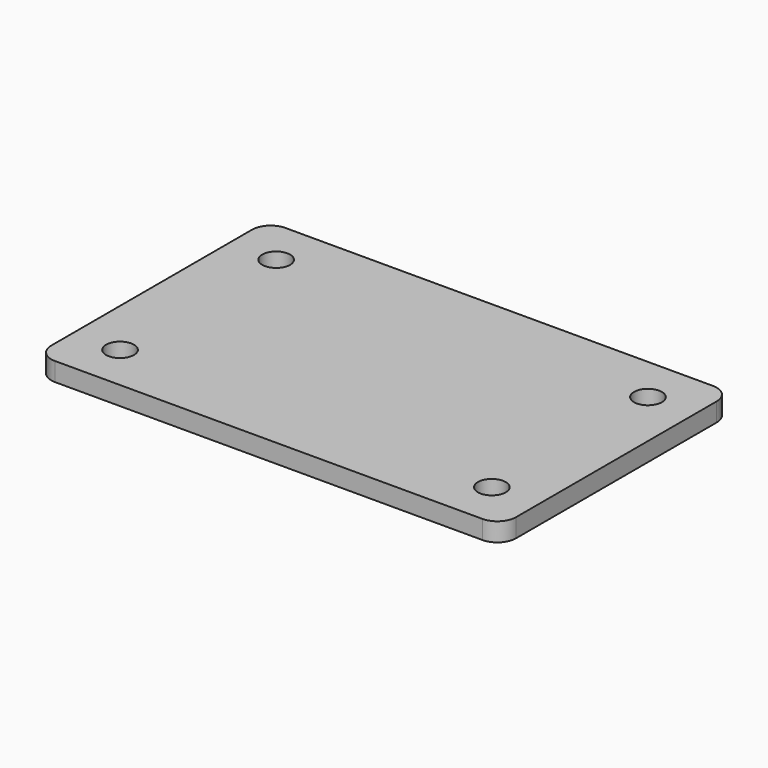
from build123d import *

# Parameters (mm, degrees)
F0_W     = 50
F0_H     = 31
F0_R     = 1.5
F1_DEPTH = 2
F2_R     = 2


with BuildPart() as f1:
    # F0 (on Top) → F1 (new body)
    with BuildSketch(Plane.XY):
        with Locations((25, 15.5)):
            Rectangle(F0_W, F0_H)
        with Locations((5, 5)):
            Circle(F0_R, mode=Mode.SUBTRACT)
        with Locations((45, 5)):
            Circle(F0_R, mode=Mode.SUBTRACT)
        with Locations((5, 26)):
            Circle(F0_R, mode=Mode.SUBTRACT)
        with Locations((45, 26)):
            Circle(F0_R, mode=Mode.SUBTRACT)
    extrude(amount=F1_DEPTH)

    # F2
    f2_edges = [f1.edges().sort_by_distance(p)[0] for p in [
        (0, 0, 1),
        (0, 31, 1),
        (50, 0, 1),
        (50, 31, 1),
    ]]
    fillet(f2_edges, radius=F2_R)


solid = f1.part
